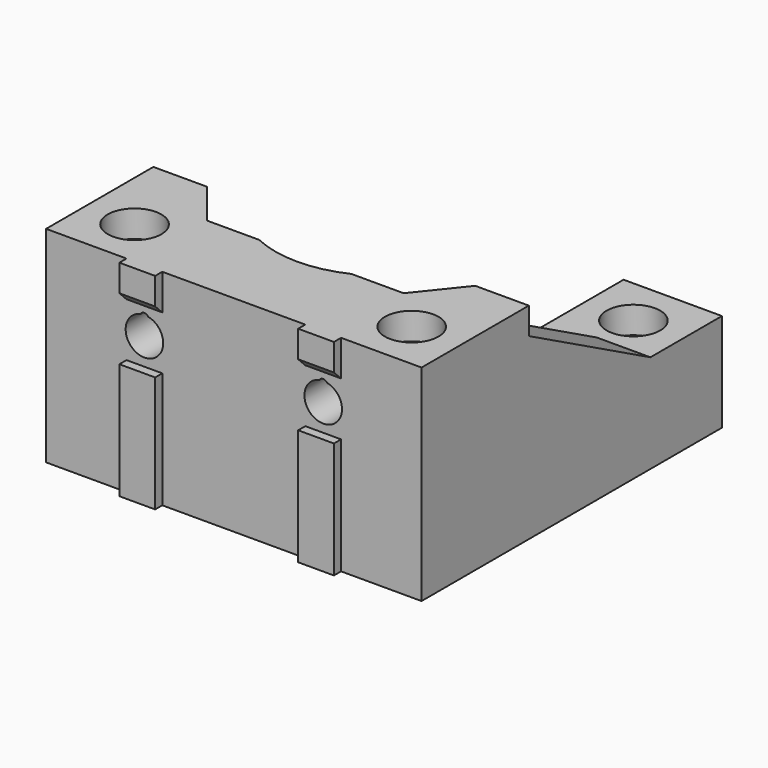
from build123d import *

# Parameters (mm, degrees)
BOX009_W            = 3
BOX009_H            = 10
BOX009_DEPTH        = 7
BOX010_W            = 3
BOX010_H            = 10
BOX010_DEPTH        = 7
BOX011_W            = 7
BOX011_H            = 10
BOX011_DEPTH        = 6
BOX012_W            = 7
BOX012_H            = 10
BOX012_DEPTH        = 6
BOX008_W            = 30
BOX008_H            = 10
BOX008_DEPTH        = 16
FILLET_R            = 5
FILLET001_R         = 4.99
BOX022_W            = 10
BOX022_H            = 10
BOX022_DEPTH        = 10
CHAMFER002011_SIZE2 = 4
CHAMFER002011_SIZE  = 5
BOX021_W            = 10
BOX021_H            = 10
BOX021_DEPTH        = 10
CHAMFER002010_SIZE2 = 4
CHAMFER002010_SIZE  = 5
CYLINDER030_R       = 2.1
CYLINDER030_DEPTH   = 20
CYLINDER032_R       = 0.5
CYLINDER032_DEPTH   = 20
CYLINDER031_R       = 2.1
CYLINDER031_DEPTH   = 20
CYLINDER033_R       = 0.5
CYLINDER033_DEPTH   = 20
CYLINDER028_R       = 0.5
CYLINDER028_DEPTH   = 10
CYLINDER014_R       = 5
CYLINDER014_DEPTH   = 10
CYLINDER029_R       = 0.5
CYLINDER029_DEPTH   = 10
CYLINDER012_R       = 5
CYLINDER012_DEPTH   = 10
CYLINDER007_R       = 1.6
CYLINDER007_DEPTH   = 40
CYLINDER008_R       = 1.6
CYLINDER008_DEPTH   = 40
CYLINDER006_R       = 1.6
CYLINDER006_DEPTH   = 40
CYLINDER003_R       = 3
CYLINDER003_DEPTH   = 5
CYLINDER001_R       = 3
CYLINDER001_DEPTH   = 5
CYLINDER002_R       = 3
CYLINDER002_DEPTH   = 5
CYLINDER_R          = 11.15
CYLINDER_DEPTH      = 4
CYLINDER023_R       = 10.15
CYLINDER023_DEPTH   = 30
CHAMFER002003_SIZE  = 0.99
BOX007_W            = 42
BOX007_H            = 47
BOX007_DEPTH        = 7
CYLINDER024_R       = 12.15
CYLINDER024_DEPTH   = 39
BOX001_W            = 42
BOX001_H            = 15
BOX001_DEPTH        = 30
BOX003_W            = 42
BOX003_H            = 15
BOX003_DEPTH        = 16
BOX002_W            = 11
BOX002_H            = 42
BOX002_DEPTH        = 16
CHAMFER_SIZE        = 5
BOX020_W            = 6
BOX020_H            = 18
BOX020_DEPTH        = 10
CHAMFER002012_SIZE2 = 17
CHAMFER002012_SIZE  = 9
BOX015_W            = 4
BOX015_H            = 1
BOX015_DEPTH        = 13
BOX017_W            = 4
BOX017_H            = 1
BOX017_DEPTH        = 4
CHAMFER002006_SIZE  = 0.99
BOX016_W            = 4
BOX016_H            = 1
BOX016_DEPTH        = 4
CHAMFER002007_SIZE  = 0.99
BOX014_W            = 4
BOX014_H            = 1
BOX014_DEPTH        = 13


with BuildPart() as cube009:
    # Box009 → Box009 (new body)
    with BuildSketch(Plane(origin=(-11, -11, 27), x_dir=(1, 0, 0), z_dir=(0, 0, 1))):
        with Locations((1.5, 5)):
            Rectangle(BOX009_W, BOX009_H)
    extrude(amount=BOX009_DEPTH)


with BuildPart() as cube010:
    # Box010 → Box010 (new body)
    with BuildSketch(Plane(origin=(8, -11, 27), x_dir=(1, 0, 0), z_dir=(0, 0, 1))):
        with Locations((1.5, 5)):
            Rectangle(BOX010_W, BOX010_H)
    extrude(amount=BOX010_DEPTH)


with BuildPart() as cube011:
    # Box011 → Box011 (new body)
    with BuildSketch(Plane(origin=(8, -11, 28), x_dir=(1, 0, 0), z_dir=(0, 0, 1))):
        with Locations((3.5, 5)):
            Rectangle(BOX011_W, BOX011_H)
    extrude(amount=BOX011_DEPTH)


with BuildPart() as fusion005013:
    # Box012 → Box012 (new body)
    with BuildSketch(Plane(origin=(-15, -11, 28), x_dir=(1, 0, 0), z_dir=(0, 0, 1))):
        with Locations((3.5, 5)):
            Rectangle(BOX012_W, BOX012_H)
    extrude(amount=BOX012_DEPTH)

    # Fusion005013: union Cube011
    add(cube011.part)


with BuildPart() as fusion005014:
    # Box008 → Box008 (new body)
    with BuildSketch(Plane(origin=(-15, -11, 18), x_dir=(1, 0, 0), z_dir=(0, 0, 1))):
        with Locations((15, 5)):
            Rectangle(BOX008_W, BOX008_H)
    extrude(amount=BOX008_DEPTH)

    # Fillet
    fillet_edges = [fusion005014.edges().sort_by_distance(p)[0] for p in [
        (-15, -6, 18),
        (15, -6, 18),
    ]]
    fillet(fillet_edges, radius=FILLET_R)

    # Cut007: cut Fusion005013
    add(fusion005013.part, mode=Mode.SUBTRACT)

    # Fillet001
    fillet001_edges = [fusion005014.edges().sort_by_distance(p)[0] for p in [
        (-15, -6, 28),
        (15, -6, 28),
    ]]
    fillet(fillet001_edges, radius=FILLET001_R)

    # Fusion005014: union Cube009, Cube010
    add(cube009.part)
    add(cube010.part)


with BuildPart() as fusion005014_1:
    # Fusion005014 placement: moved
    add(fusion005014.part.moved(Location((0, 0, -7))))


with BuildPart() as chamfer002011:
    # Box022 → Box022 (new body)
    with BuildSketch(Plane(origin=(-15, -11, 16), x_dir=(1, 0, 0), z_dir=(0, 0, 1))):
        with Locations((5, 5)):
            Rectangle(BOX022_W, BOX022_H)
    extrude(amount=BOX022_DEPTH)

    # Chamfer002011
    chamfer002011_edges = [chamfer002011.edges().sort_by_distance(p)[0] for p in [
        (-15, -11, 21),
    ]]
    chamfer002011_side = chamfer002011.faces().sort_by_distance((-15, -6, 21))[0]
    chamfer(chamfer002011_edges, length=CHAMFER002011_SIZE, length2=CHAMFER002011_SIZE2, reference=chamfer002011_side)


with BuildPart() as fusion005018006005:
    # Box021 → Box021 (new body)
    with BuildSketch(Plane(origin=(5, -11, 16), x_dir=(1, 0, 0), z_dir=(0, 0, 1))):
        with Locations((5, 5)):
            Rectangle(BOX021_W, BOX021_H)
    extrude(amount=BOX021_DEPTH)

    # Chamfer002010
    chamfer002010_edges = [fusion005018006005.edges().sort_by_distance(p)[0] for p in [
        (15, -11, 21),
    ]]
    chamfer002010_side = fusion005018006005.faces().sort_by_distance((15, -6, 21))[0]
    chamfer(chamfer002010_edges, length=CHAMFER002010_SIZE, length2=CHAMFER002010_SIZE2, reference=chamfer002010_side)

    # Fusion005018006002: union Chamfer002011
    add(chamfer002011.part)

    # Fusion005018006005: union Fusion005014
    add(fusion005014_1.part)


with BuildPart() as cylinder030:
    # Cylinder030 → Cylinder030 (new body)
    with BuildSketch(Plane(origin=(10, -21, 18), x_dir=(1, 0, 0), z_dir=(0, 1, 0))):
        Circle(CYLINDER030_R)
    extrude(amount=CYLINDER030_DEPTH)


with BuildPart() as cylinder032:
    # Cylinder032 → Cylinder032 (new body)
    with BuildSketch(Plane(origin=(10, -21, 19.8), x_dir=(1, 0, 0), z_dir=(0, 1, 0))):
        Circle(CYLINDER032_R)
    extrude(amount=CYLINDER032_DEPTH)


with BuildPart() as cylinder031:
    # Cylinder031 → Cylinder031 (new body)
    with BuildSketch(Plane(origin=(-10, -21, 18), x_dir=(1, 0, 0), z_dir=(0, 1, 0))):
        Circle(CYLINDER031_R)
    extrude(amount=CYLINDER031_DEPTH)


with BuildPart() as fusion005016:
    # Cylinder033 → Cylinder033 (new body)
    with BuildSketch(Plane(origin=(-10, -21, 19.8), x_dir=(1, 0, 0), z_dir=(0, 1, 0))):
        Circle(CYLINDER033_R)
    extrude(amount=CYLINDER033_DEPTH)

    # Fusion005016: union Cylinder030, Cylinder032, Cylinder031
    add(cylinder030.part)
    add(cylinder032.part)
    add(cylinder031.part)


with BuildPart() as fusion005016_1:
    # Fusion005016 placement: moved
    add(fusion005016.part.moved(Location((0, 0, -2))))


with BuildPart() as cylinder028:
    # Cylinder028 → Cylinder028 (new body)
    with BuildSketch(Plane(origin=(10, -20, 27.7), x_dir=(1, 0, 0), z_dir=(0, 1, 0))):
        Circle(CYLINDER028_R)
    extrude(amount=CYLINDER028_DEPTH)


with BuildPart() as cylinder014:
    # Cylinder014 → Cylinder014 (new body)
    with BuildSketch(Plane(origin=(-10, -10, 23), x_dir=(1, 0, 0), z_dir=(0, -1, 0))):
        Circle(CYLINDER014_R)
    extrude(amount=CYLINDER014_DEPTH)


with BuildPart() as cylinder029:
    # Cylinder029 → Cylinder029 (new body)
    with BuildSketch(Plane(origin=(-10, -20, 27.7), x_dir=(1, 0, 0), z_dir=(0, 1, 0))):
        Circle(CYLINDER029_R)
    extrude(amount=CYLINDER029_DEPTH)


with BuildPart() as fusion005008:
    # Cylinder012 → Cylinder012 (new body)
    with BuildSketch(Plane(origin=(10, -10, 23), x_dir=(1, 0, 0), z_dir=(0, -1, 0))):
        Circle(CYLINDER012_R)
    extrude(amount=CYLINDER012_DEPTH)

    # Fusion005008: union Cylinder028, Cylinder014, Cylinder029
    add(cylinder028.part)
    add(cylinder014.part)
    add(cylinder029.part)


with BuildPart() as fusion005008_1:
    # Fusion005008 placement: moved
    add(fusion005008.part.moved(Location((0, 9, -7))))


with BuildPart() as cylinder007:
    # Cylinder007 → Cylinder007 (new body)
    with BuildSketch(Plane(origin=(15.5, -15.5, 0), x_dir=(1, 0, 0), z_dir=(0, 0, 1))):
        Circle(CYLINDER007_R)
    extrude(amount=CYLINDER007_DEPTH)


with BuildPart() as cylinder008:
    # Cylinder008 → Cylinder008 (new body)
    with BuildSketch(Plane(origin=(15.5, 15.5, 0), x_dir=(1, 0, 0), z_dir=(0, 0, 1))):
        Circle(CYLINDER008_R)
    extrude(amount=CYLINDER008_DEPTH)


with BuildPart() as fusion001:
    # Cylinder006 → Cylinder006 (new body)
    with BuildSketch(Plane(origin=(-15.5, -15.5, 0), x_dir=(1, 0, 0), z_dir=(0, 0, 1))):
        Circle(CYLINDER006_R)
    extrude(amount=CYLINDER006_DEPTH)

    # Fusion001: union Cylinder007, Cylinder008
    add(cylinder007.part)
    add(cylinder008.part)


with BuildPart() as cylinder003:
    # Cylinder003 → Cylinder003 (new body)
    with BuildSketch(Plane(origin=(15.5, -15.5, 28), x_dir=(1, 0, 0), z_dir=(0, 0, 1))):
        Circle(CYLINDER003_R)
    extrude(amount=CYLINDER003_DEPTH)


with BuildPart() as fusion005010:
    # Cylinder001 → Cylinder001 (new body)
    with BuildSketch(Plane(origin=(-15.5, -15.5, 28), x_dir=(1, 0, 0), z_dir=(0, 0, 1))):
        Circle(CYLINDER001_R)
    extrude(amount=CYLINDER001_DEPTH)

    # Fusion005010: union Cylinder003
    add(cylinder003.part)


with BuildPart() as fusion005010_1:
    # Fusion005010 placement: moved
    add(fusion005010.part.moved(Location((0, 0, -8))))


with BuildPart() as cylinder002:
    # Cylinder002 → Cylinder002 (new body)
    with BuildSketch(Plane(origin=(15.5, 15.5, 8), x_dir=(1, 0, 0), z_dir=(0, 0, 1))):
        Circle(CYLINDER002_R)
    extrude(amount=CYLINDER002_DEPTH)


with BuildPart() as cylinder:
    # Cylinder → Cylinder (new body)
    with BuildSketch(Plane.XY):
        Circle(CYLINDER_R)
    extrude(amount=CYLINDER_DEPTH)


with BuildPart() as chamfer002003:
    # Cylinder023 → Cylinder023 (new body)
    with BuildSketch(Plane.XY):
        Circle(CYLINDER023_R)
    extrude(amount=CYLINDER023_DEPTH)

    # Fusion005006: union Cylinder
    add(cylinder.part)

    # Chamfer002003
    chamfer002003_edges = [chamfer002003.edges().sort_by_distance(p)[0] for p in [
        (-11.15, 0, 4),
    ]]
    chamfer(chamfer002003_edges, length=CHAMFER002003_SIZE)


with BuildPart() as cube007:
    # Box007 → Box007 (new body)
    with BuildSketch(Plane(origin=(-21, -26, -2), x_dir=(1, 0, 0), z_dir=(0, 0, 1))):
        with Locations((21, 23.5)):
            Rectangle(BOX007_W, BOX007_H)
    extrude(amount=BOX007_DEPTH)


with BuildPart() as cylinder024:
    # Cylinder024 → Cylinder024 (new body)
    with BuildSketch(Plane.XY):
        Circle(CYLINDER024_R)
    extrude(amount=CYLINDER024_DEPTH)


with BuildPart() as cut:
    # Box001 → Box001 (new body)
    with BuildSketch(Plane(origin=(-21, -21, 0), x_dir=(1, 0, 0), z_dir=(0, 0, 1))):
        with Locations((21, 7.5)):
            Rectangle(BOX001_W, BOX001_H)
    extrude(amount=BOX001_DEPTH)

    # Cut: cut Cylinder024
    add(cylinder024.part, mode=Mode.SUBTRACT)


with BuildPart() as cut_1:
    # Cut placement: moved
    add(cut.part.moved(Location((0, 0, -2))))


with BuildPart() as cube003:
    # Box003 → Box003 (new body)
    with BuildSketch(Plane(origin=(-21, -21, 0), x_dir=(1, 0, 0), z_dir=(0, 0, 1))):
        with Locations((21, 7.5)):
            Rectangle(BOX003_W, BOX003_H)
    extrude(amount=BOX003_DEPTH)


with BuildPart() as cut015:
    # Box002 → Box002 (new body)
    with BuildSketch(Plane(origin=(10, -21, 0), x_dir=(1, 0, 0), z_dir=(0, 0, 1))):
        with Locations((5.5, 21)):
            Rectangle(BOX002_W, BOX002_H)
    extrude(amount=BOX002_DEPTH)

    # Fusion: union Cube003
    add(cube003.part)

    # Chamfer
    chamfer_edges = [cut015.edges().sort_by_distance(p)[0] for p in [
        (10, -6, 8),
    ]]
    chamfer(chamfer_edges, length=CHAMFER_SIZE)

    # Fusion005018004: union Cut
    add(cut_1.part)

    # Cut008: cut Cube007
    add(cube007.part, mode=Mode.SUBTRACT)


with BuildPart() as cut015_1:
    # Cut008 placement: moved
    add(cut015.part.moved(Location((0, 0, -5))))

    # Cut009: cut Chamfer002003
    add(chamfer002003.part, mode=Mode.SUBTRACT)

    # Cut010: cut Cylinder002
    add(cylinder002.part, mode=Mode.SUBTRACT)

    # Cut011: cut Fusion005010
    add(fusion005010_1.part, mode=Mode.SUBTRACT)

    # Cut012: cut Fusion001
    add(fusion001.part, mode=Mode.SUBTRACT)

    # Cut013: cut Fusion005008
    add(fusion005008_1.part, mode=Mode.SUBTRACT)

    # Cut014: cut Fusion005016
    add(fusion005016_1.part, mode=Mode.SUBTRACT)

    # Cut015: cut Fusion005018006005
    add(fusion005018006005.part, mode=Mode.SUBTRACT)


with BuildPart() as chamfer002012:
    # Box020 → Box020 (new body)
    with BuildSketch(Plane(origin=(15, -7, 10), x_dir=(1, 0, 0), z_dir=(0, 0, 1))):
        with Locations((3, 9)):
            Rectangle(BOX020_W, BOX020_H)
    extrude(amount=BOX020_DEPTH)

    # Chamfer002012
    chamfer002012_edges = [chamfer002012.edges().sort_by_distance(p)[0] for p in [
        (18, 11, 20),
    ]]
    chamfer002012_side = chamfer002012.faces().sort_by_distance((18, 11, 15))[0]
    chamfer(chamfer002012_edges, length=CHAMFER002012_SIZE, length2=CHAMFER002012_SIZE2, reference=chamfer002012_side)


with BuildPart() as cube015:
    # Box015 → Box015 (new body)
    with BuildSketch(Plane(origin=(-12, -22, 0), x_dir=(1, 0, 0), z_dir=(0, 0, 1))):
        with Locations((2, 0.5)):
            Rectangle(BOX015_W, BOX015_H)
    extrude(amount=BOX015_DEPTH)


with BuildPart() as chamfer002006:
    # Box017 → Box017 (new body)
    with BuildSketch(Plane(origin=(-12, -22, 21), x_dir=(1, 0, 0), z_dir=(0, 0, 1))):
        with Locations((2, 0.5)):
            Rectangle(BOX017_W, BOX017_H)
    extrude(amount=BOX017_DEPTH)

    # Chamfer002006
    chamfer002006_edges = [chamfer002006.edges().sort_by_distance(p)[0] for p in [
        (-10, -22, 21),
    ]]
    chamfer(chamfer002006_edges, length=CHAMFER002006_SIZE)


with BuildPart() as chamfer002006_1:
    # Chamfer002006 placement: moved
    add(chamfer002006.part.moved(Location((0, 0, -2))))


with BuildPart() as chamfer002007:
    # Box016 → Box016 (new body)
    with BuildSketch(Plane(origin=(8, -22, 21), x_dir=(1, 0, 0), z_dir=(0, 0, 1))):
        with Locations((2, 0.5)):
            Rectangle(BOX016_W, BOX016_H)
    extrude(amount=BOX016_DEPTH)

    # Chamfer002007
    chamfer002007_edges = [chamfer002007.edges().sort_by_distance(p)[0] for p in [
        (10, -22, 21),
    ]]
    chamfer(chamfer002007_edges, length=CHAMFER002007_SIZE)


with BuildPart() as chamfer002007_1:
    # Chamfer002007 placement: moved
    add(chamfer002007.part.moved(Location((0, 0, -2))))


with BuildPart() as fusion005018006007:
    # Box014 → Box014 (new body)
    with BuildSketch(Plane(origin=(8, -22, 0), x_dir=(1, 0, 0), z_dir=(0, 0, 1))):
        with Locations((2, 0.5)):
            Rectangle(BOX014_W, BOX014_H)
    extrude(amount=BOX014_DEPTH)

    # Fusion005018006006: union Cube015, Chamfer002006, Chamfer002007
    add(cube015.part)
    add(chamfer002006_1.part)
    add(chamfer002007_1.part)

    # Fusion005018006007: union Cut015, Chamfer002012
    add(cut015_1.part)
    add(chamfer002012.part)


solid = fusion005018006007.part
